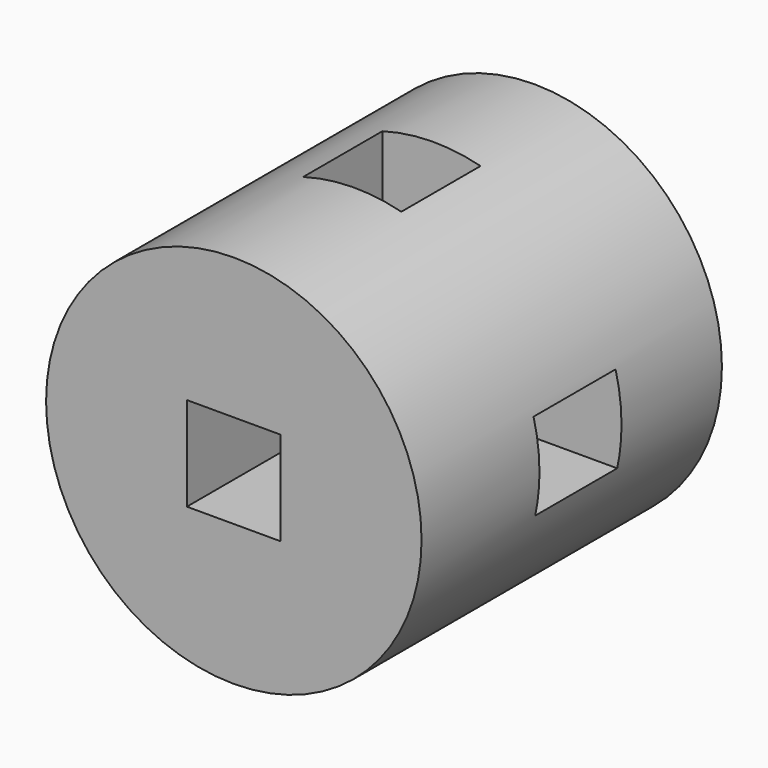
from build123d import *

# Parameters (mm, degrees)
F0_R     = 25.4
F0_W     = 12.7
F0_H     = 12.7
F1_DEPTH = 50.8
F2_W     = 13.873184
F2_H     = 11.720448
F3_DEPTH = 50.8
F4_W     = 13.275202
F4_H     = 13.394801
F5_DEPTH = 50.8


with BuildPart() as f1:
    # F0 (on Front) → F1 (new body)
    with BuildSketch(Plane.XZ):
        with Locations((-6.32722, 8.622332)):
            Circle(F0_R)
        with Locations((-6.32722, 8.622332)):
            Rectangle(F0_W, F0_H, mode=Mode.SUBTRACT)
    extrude(amount=F1_DEPTH)

    # F2 (on Right) → F3 (cut, symmetric)
    with BuildSketch(Plane.YZ):
        with Locations((-23.919283, 9.089327)):
            Rectangle(F2_W, F2_H)
    extrude(amount=F3_DEPTH, both=True, mode=Mode.SUBTRACT)

    # F4 (on Top) → F5 (cut, symmetric)
    with BuildSketch(Plane.XY):
        with Locations((-6.637601, -23.68009)):
            Rectangle(F4_W, F4_H)
    extrude(amount=F5_DEPTH, both=True, mode=Mode.SUBTRACT)


solid = f1.part
